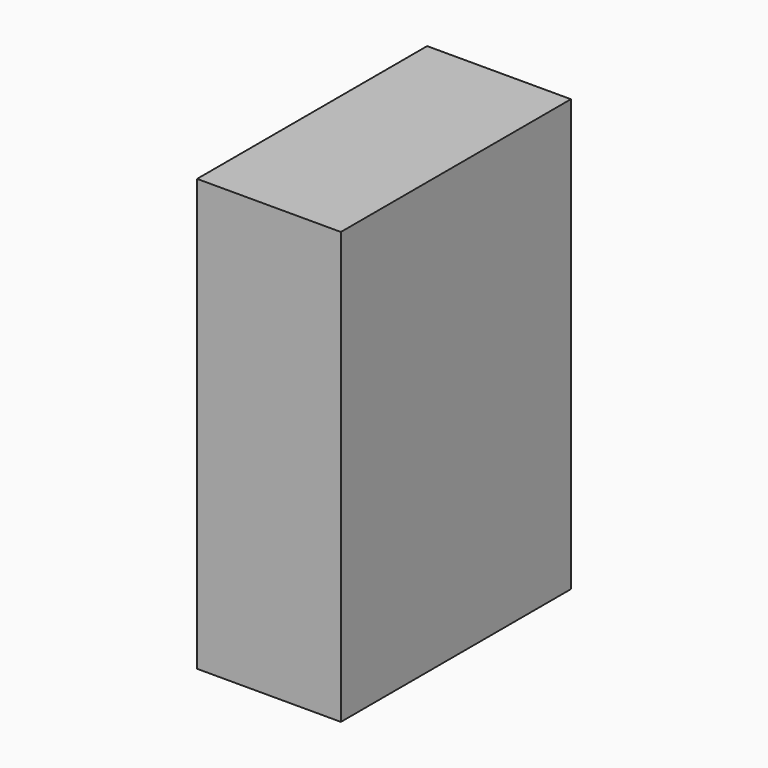
from build123d import *

# Parameters (mm, degrees)
BOX_W     = 2.55906
BOX_H     = 5.11812
BOX_DEPTH = 7.67718


with BuildPart() as part:
    # Box → Box (new body)
    with BuildSketch(Plane.XY):
        with Locations((1.27953, 2.55906)):
            Rectangle(BOX_W, BOX_H)
    extrude(amount=BOX_DEPTH)


solid = part.part
